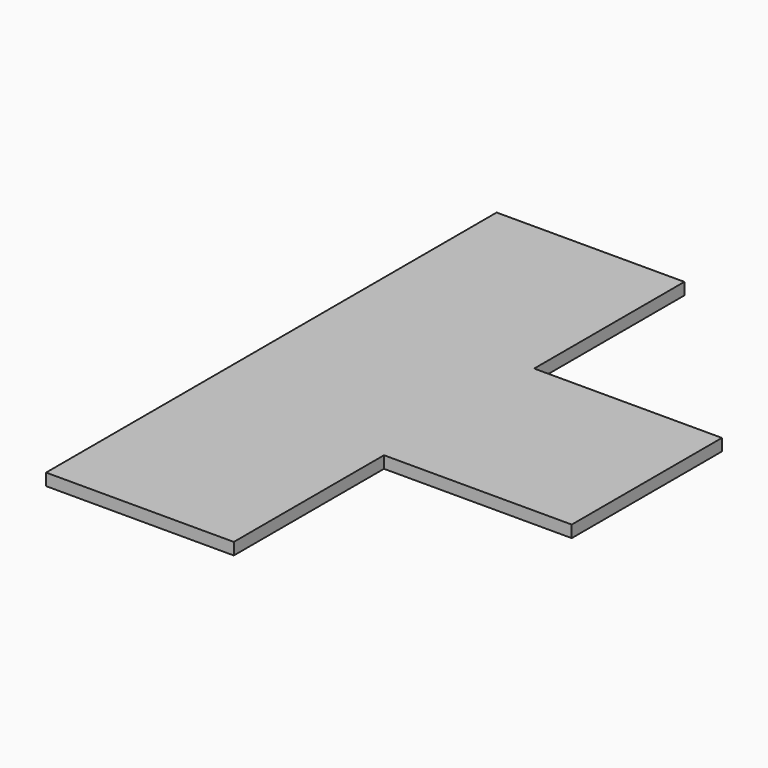
from build123d import *

# Parameters (mm, degrees)
F0_W     = 47.0686554909
F0_H     = 47.0686554909
F1_DEPTH = 3


with BuildPart() as f1:
    # F0 (on Top) → F1 (new body)
    with BuildSketch(Plane.XY):
        with Locations((-15.658213757, 53.1422756612)):
            Rectangle(F0_W, F0_H)
        Polygon((7.8761139885, 29.6079479158), (-39.1925415024, 29.6079479158), (-39.1925415024, -17.4607075751), (7.8761139885, -17.4607075751), (54.9447694793, -17.4607075751), (54.9447694793, 29.6079479158), align=None)
        with Locations((-15.658213757, -40.9950353205)):
            Rectangle(F0_W, F0_H)
    extrude(amount=F1_DEPTH)


solid = f1.part
